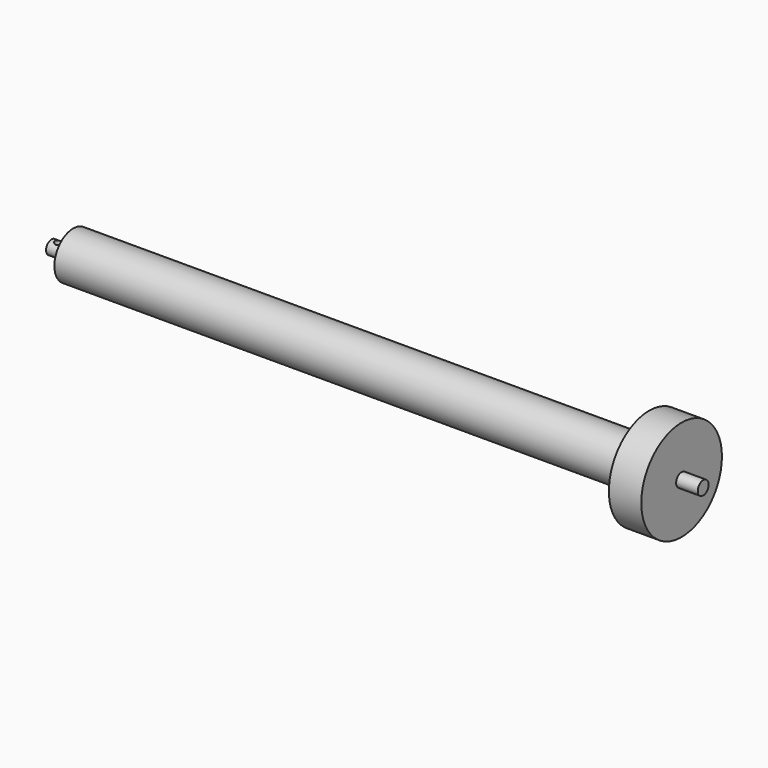
from build123d import *

# Parameters (mm, degrees)
F0_R     = 20.6375
F0_R_2   = 6
F1_DEPTH = 268.2875
F2_DEPTH = 287.3375
F3_R     = 3.175
F4_DEPTH = 6.35
F5_START = 239.7125
F0_R_3   = 44.45
F5_DEPTH = 28.575


with BuildPart() as f1:
    # F0 (on Right) → F1 (new body, symmetric)
    with BuildSketch(Plane.YZ):
        Circle(F0_R)
        Circle(F0_R_2, mode=Mode.SUBTRACT)
    extrude(amount=F1_DEPTH, both=True)

    # F0 (on Right) → F2 (join, symmetric)
    with BuildSketch(Plane.YZ):
        Circle(F0_R_2)
    extrude(amount=F2_DEPTH, both=True)

    # F3 (on Top) → F4 (cut, symmetric)
    with BuildSketch(Plane.XY):
        with Locations((-280.9875, 0)):
            Circle(F3_R)
    extrude(amount=F4_DEPTH, both=True, mode=Mode.SUBTRACT)

    # F0 (on Right) → F5 (join)
    with BuildSketch(Plane.YZ.offset(F5_START)):
        Circle(F0_R_3)
        Circle(F0_R, mode=Mode.SUBTRACT)
    extrude(amount=F5_DEPTH)


solid = f1.part
